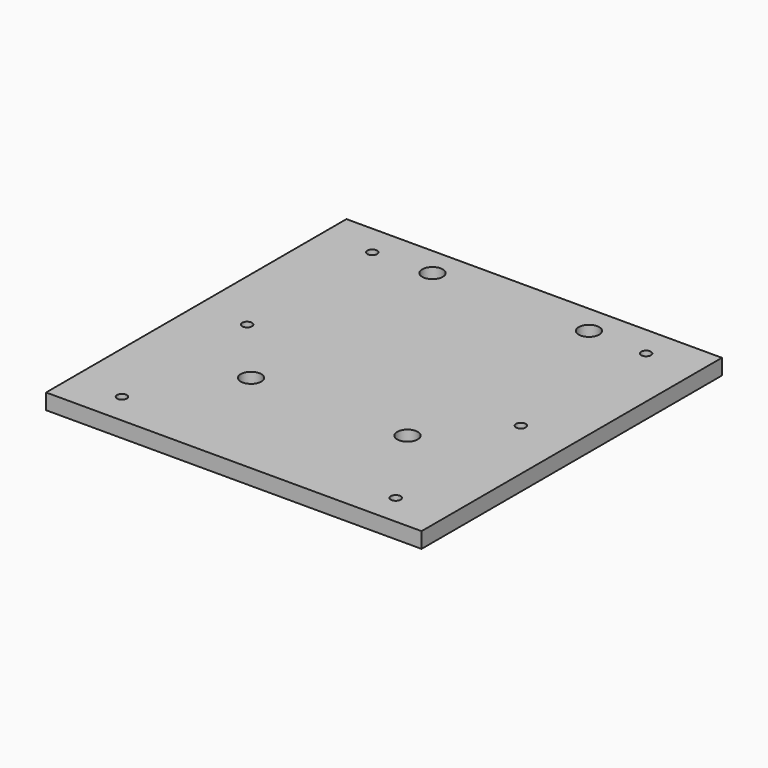
from build123d import *

# Parameters (mm, degrees)
F0_W     = 304.8
F0_H     = 304.8
F1_DEPTH = 12.7
F2_D     = 7.9375
F2_DEPTH = 20.6629
F2_TIP   = 2.3846655818
F3_D     = 16.66748
F3_DEPTH = 20.6756
F3_TIP   = 5.0074161752


with BuildPart() as f1:
    # F0 (on Top) → F1 (new body)
    with BuildSketch(Plane.XY):
        with Locations((-152.4, 152.4)):
            Rectangle(F0_W, F0_H)
    extrude(amount=-F1_DEPTH)

    # F2
    with Locations(Plane.XY):
        with Locations((-263.525, 279.4), (-263.525, 152.4), (-263.525, 25.4), (-41.275, 279.4), (-41.275, 152.4), (-41.275, 25.4)):
            Hole(F2_D / 2, depth=F2_DEPTH)
            with Locations((0, 0, -(F2_DEPTH + F2_TIP / 2))):  # 118° drill point
                Cone(0, F2_D / 2, F2_TIP, mode=Mode.SUBTRACT)

    # F3
    with Locations(Plane.XY):
        with Locations((-215.9, 280.9875), (-88.9, 280.9875), (-88.9, 96.8375), (-215.9, 96.8375)):
            Hole(F3_D / 2, depth=F3_DEPTH)
            with Locations((0, 0, -(F3_DEPTH + F3_TIP / 2))):  # 118° drill point
                Cone(0, F3_D / 2, F3_TIP, mode=Mode.SUBTRACT)


solid = f1.part
